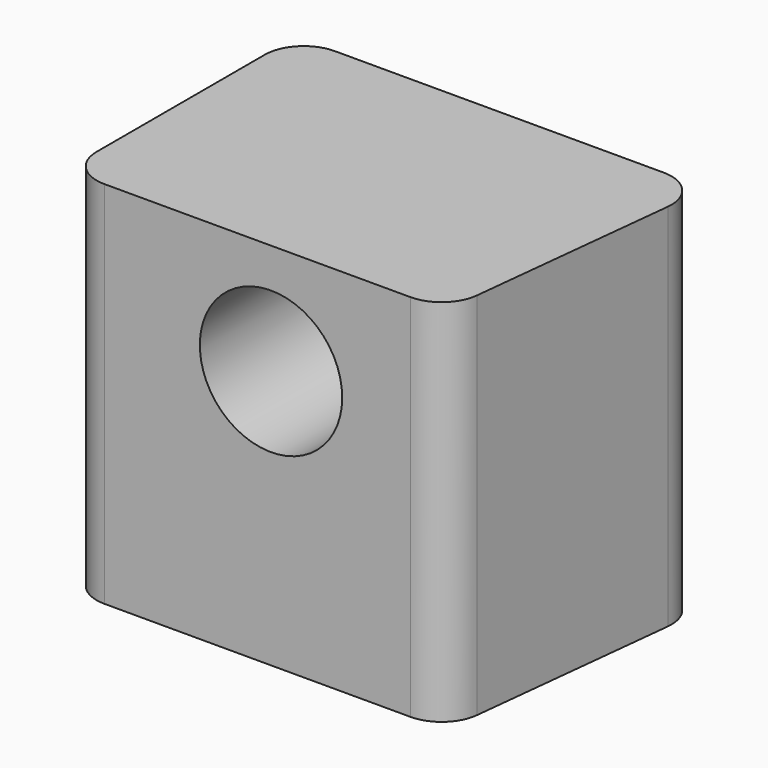
from build123d import *

# Parameters (mm, degrees)
F1_DEPTH = 57.1
F2_R     = 11
F3_DEPTH = 44.5
F4_R     = 3.05
F5_DEPTH = 7.8
F6_R     = 6


with BuildPart() as f1:
    # F0 (on Top) → F1 (new body)
    with BuildSketch(Plane.XY):
        Polygon((-31.75, 44.5), (-31.75, 0), (26.95, 0), (31.75, 44.5), align=None)
    extrude(amount=F1_DEPTH)

    # F2 (on face) → F3 (cut, through all)
    with BuildSketch(Plane.XZ):
        with Locations((0, 40)):
            Circle(F2_R)
    extrude(amount=-F3_DEPTH, mode=Mode.SUBTRACT)

    # F4 (on face) → F5 (cut)
    with BuildSketch(Plane(origin=(0, 0, 0), x_dir=(1, 0, 0), z_dir=(0, 0, -1))):
        with Locations((0, -5.18)):
            Circle(F4_R)
    extrude(amount=-F5_DEPTH, mode=Mode.SUBTRACT)

    # F6
    f6_edges = [f1.edges().sort_by_distance(p)[0] for p in [
        (-31.75, 0, 28.55),
        (-31.75, 44.5, 28.55),
        (26.95, 0, 28.55),
        (31.75, 44.5, 28.55),
    ]]
    fillet(f6_edges, radius=F6_R)


solid = f1.part
